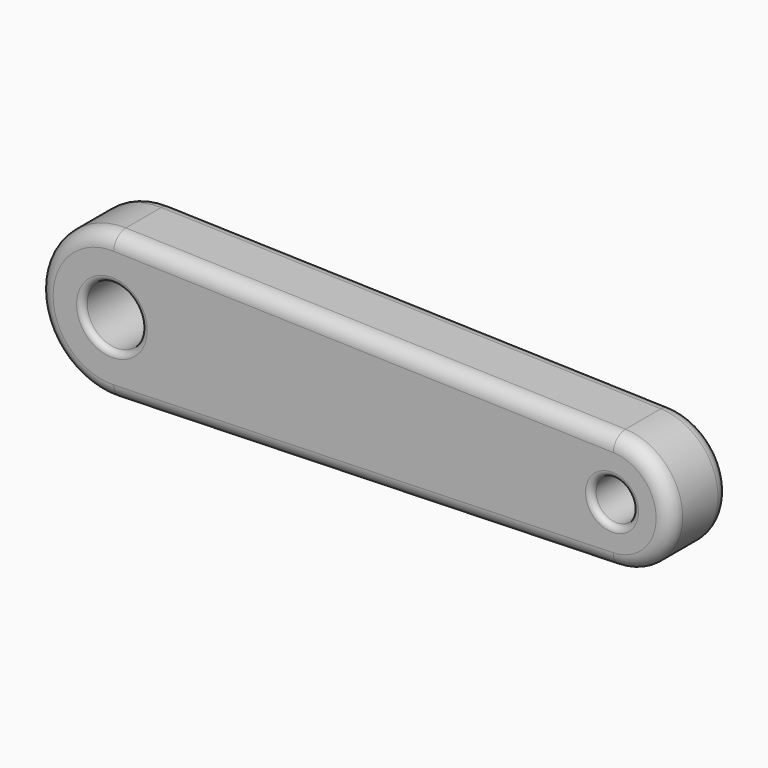
from build123d import *

# Parameters (mm, degrees)
F0_R     = 10
F0_R_2   = 7
F1_DEPTH = 12.5
F2_R     = 5
F3_R     = 2


with BuildPart() as f1:
    # F0 (on Front) → F1 (new body, symmetric)
    with BuildSketch(Plane.XZ):
        with BuildLine():
            Line((118.612932, 19.991348), (-51.240009, 24.989185))
            ThreePointArc((-51.240009, 24.989185), (-76.975303, 0), (-51.240009, -24.989185))
            Line((-51.240009, -24.989185), (118.612932, -19.991348))
            ThreePointArc((118.612932, -19.991348), (138.024697, 0), (118.612932, 19.991348))
        make_face()
        with Locations((-51.975303, 0)):
            Circle(F0_R, mode=Mode.SUBTRACT)
        with Locations((118.024697, 0)):
            Circle(F0_R_2, mode=Mode.SUBTRACT)
    extrude(amount=F1_DEPTH, both=True)

    # F2
    f2_edges = [f1.edges().sort_by_distance(p)[0] for p in [
        (33.686461, -12.5, -22.490266),
        (33.686461, -12.5, 22.490266),
        (33.686461, 12.5, -22.490266),
        (-76.975303, 12.5, 0),
    ]]
    fillet(f2_edges, radius=F2_R)

    # F3
    f3_edges = [f1.edges().sort_by_distance(p)[0] for p in [
        (-61.975303, -12.5, 0),
        (-61.975303, 12.5, 0),
        (111.024697, -12.5, 0),
        (125.024697, 0, 0),
        (111.024697, 12.5, 0),
    ]]
    fillet(f3_edges, radius=F3_R)


solid = f1.part
